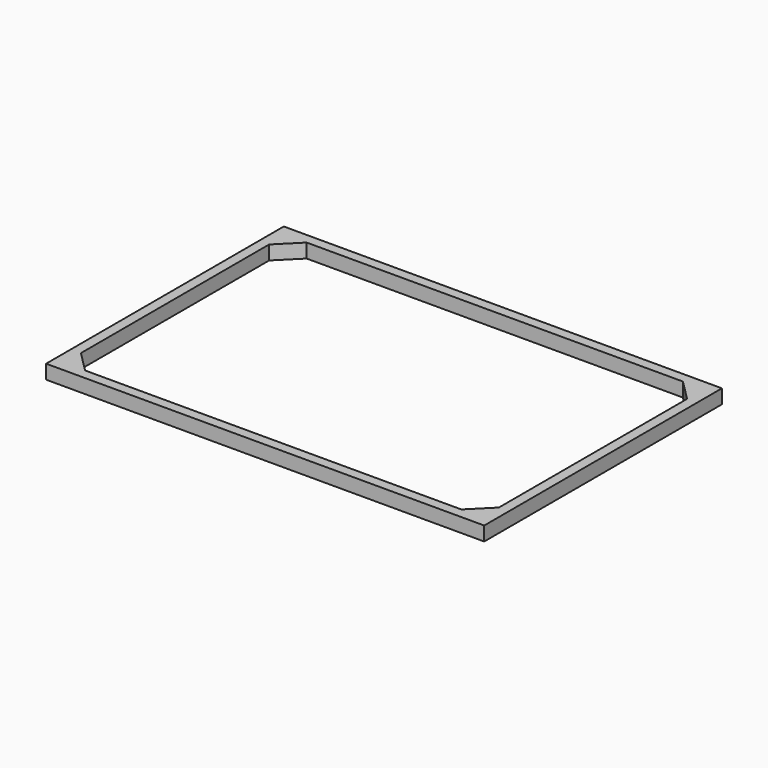
from build123d import *

# Parameters (mm, degrees)
SKETCH_W  = 435
SKETCH_H  = 295
PAD_DEPTH = 14


with BuildPart() as part:
    # Sketch → Pad (new body)
    with BuildSketch(Plane.XY):
        Rectangle(SKETCH_W, SKETCH_H)
        Polygon((186.788842, -137.5), (-186.788842, -137.5), (-207.5, -116.788842), (-207.5, 116.788842), (-186.788842, 137.5), (186.788842, 137.5), (207.5, 116.788842), (207.5, -116.788842), align=None, mode=Mode.SUBTRACT)
    extrude(amount=PAD_DEPTH)


solid = part.part
